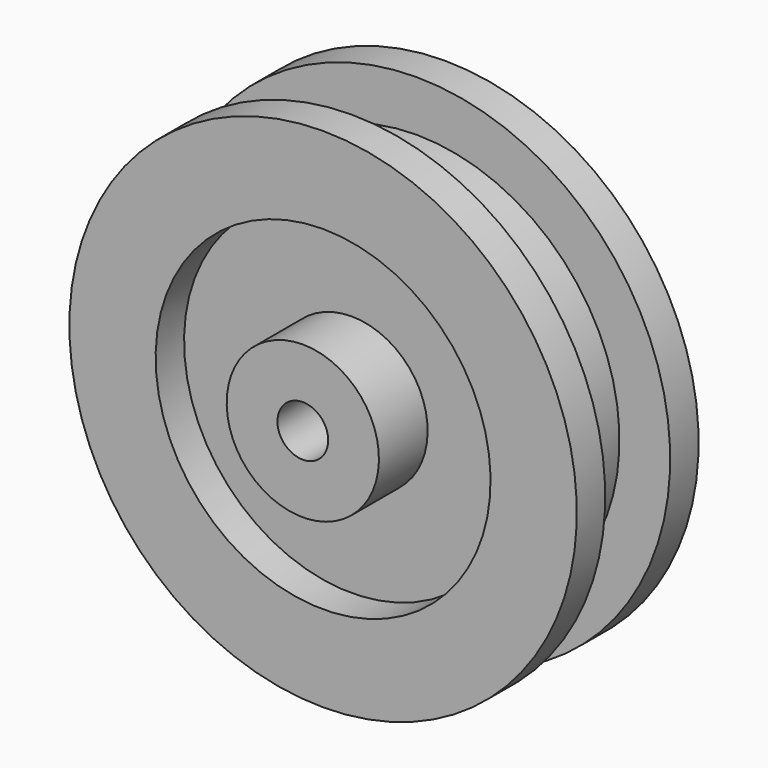
from build123d import *


with BuildPart() as f1:
    # F0 (on Right) → F1 (revolve)
    with BuildSketch(Plane.YZ):
        Polygon((20, 100), (0, 100), (-20, 100), (-20, 125), (-37.5, 125), (-37.5, 82.5), (-20, 82.5), (-20, 37.5), (-50, 37.5), (-50, 12.5), (0, 12.5), (50, 12.5), (50, 37.5), (20, 37.5), (20, 82.5), (37.5, 82.5), (37.5, 125), (20, 125), align=None)
    revolve(axis=Axis((0, 0, 0), (0, 1, 0)))


solid = f1.part
